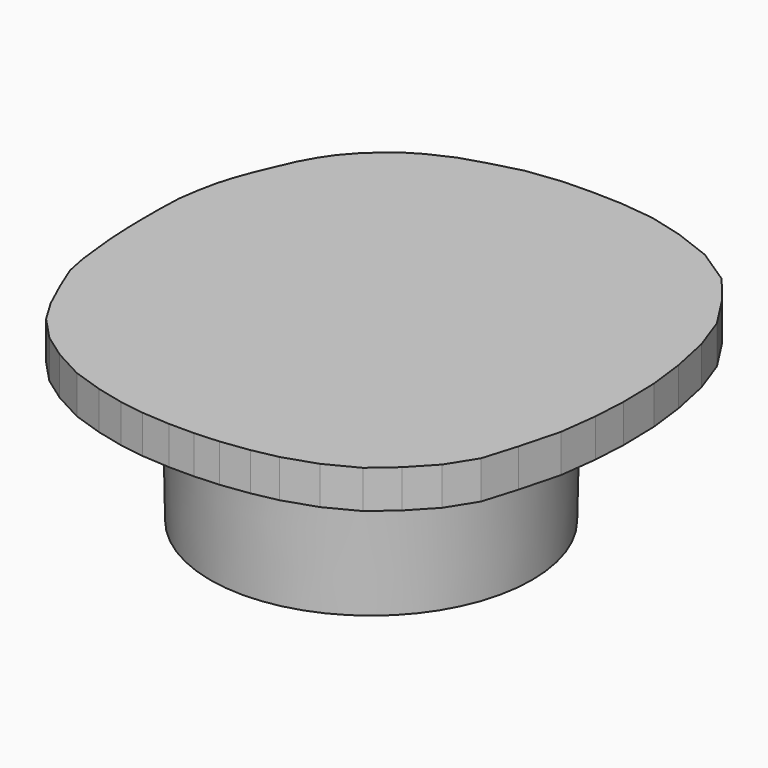
from build123d import *

# Parameters (mm, degrees)
F0_R     = 21.125
F2_R     = 21.575
F6_DEPTH = 5


with BuildPart() as f5:
    # F0 (on Top) → F5 section 0
    with BuildSketch(Plane.XY):
        Circle(F0_R)
    # F2 (on offset) → F5 section 1
    with BuildSketch(Plane.XY.offset(19)):
        Circle(F2_R)
    loft()

    # F4 (on offset) → F6 (join, through all)
    with BuildSketch(Plane.XY.offset(24)):
        Polygon((4.8545051575, 35.0056151581), (0.9513065061, 35.1146380116), (-2.9495599623, 35.0381506747), (-7.3858366721, 34.5027381994), (-11.4396800482, 33.431911015), (-14.6521593676, 32.4375728429), (-17.788150233, 30.9843078571), (-20.0827770418, 29.607532442), (-22.9128230274, 27.1599287256), (-24.6720395948, 25.1712512644), (-25.8193485314, 23.4885242679), (-26.9666664035, 21.4233594698), (-27.961007368, 19.1287304272), (-28.9760252346, 16.7291352786), (-29.7340651287, 14.6715869345), (-30.3550512956, 12.5905871947), (-30.8553268874, 10.1346778688), (-31.2450337726, 7.5703957518), (-31.3471315616, 4.5074330419), (-31.3471315616, 1.7507681666), (-31.2960826671, -0.9548455803), (-31.1429359836, -3.9157082674), (-30.8876915112, -6.3660775418), (-30.5813892087, -9.0716912887), (-30.0198513693, -11.8794072923), (-28.6502880738, -15.241816491), (-27.0111655274, -18.823602796), (-25.1899182536, -21.8590149189), (-22.3366308581, -24.8944315096), (-19.1798022503, -27.1406364806), (-15.2337664905, -29.2654249666), (-11.2270224883, -30.6010063007), (-7.7059444257, -31.4509216951), (-4.4884075754, -31.9365876348), (-0.7852047855, -32.1794206046), (2.4930403073, -32.1794206046), (5.7105771576, -31.9972958772), (9.3530806406, -31.5116299376), (12.6313257334, -30.8438392705), (16.820194463, -29.447549694), (20.8269295296, -27.3834694504), (23.8623461203, -24.7730150247), (26.7156335159, -21.7376029018), (28.9618384868, -18.155812129), (30.2974198209, -13.7241104295), (31.6937093974, -8.4424933357), (32.300791822, -3.585833939), (32.5436247918, 0.7244512755), (32.4328684384, 5.9111592441), (31.8553135951, 10.6038152433), (30.7723898868, 15.7296362581), (29.111915803, 20.3500951095), (26.3685180109, 24.6095816254), (23.3363405633, 28.3637048611), (18.643684564, 31.4680761057), (13.7344482909, 33.3451377235), (9.3305719472, 34.5002518779), align=None)
    extrude(amount=-F6_DEPTH)


solid = f5.part
